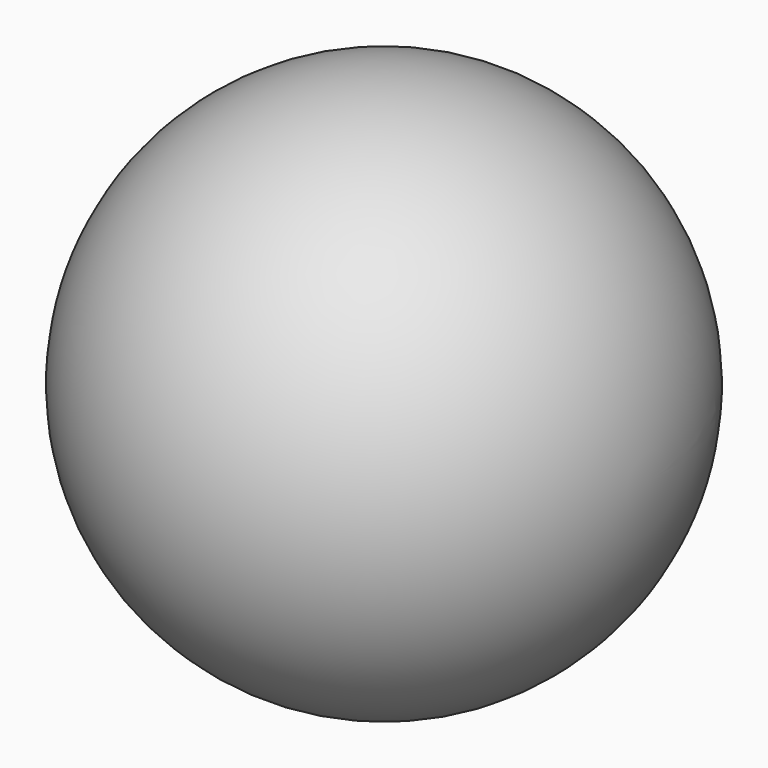
from build123d import *


with BuildPart() as f1:
    # F0 (on Top) → F1 (revolve)
    with BuildSketch(Plane.XY):
        with BuildLine():
            Line((11.3, 0), (12.5, 0))
            ThreePointArc((12.5, 0), (0, 12.5), (-12.5, 0))
            Line((-12.5, 0), (-11.3, 0))
            ThreePointArc((-11.3, 0), (0, 11.3), (11.3, 0))
        make_face()
    revolve(axis=Axis((0, 0, 0), (1, 0, 0)))


solid = f1.part
